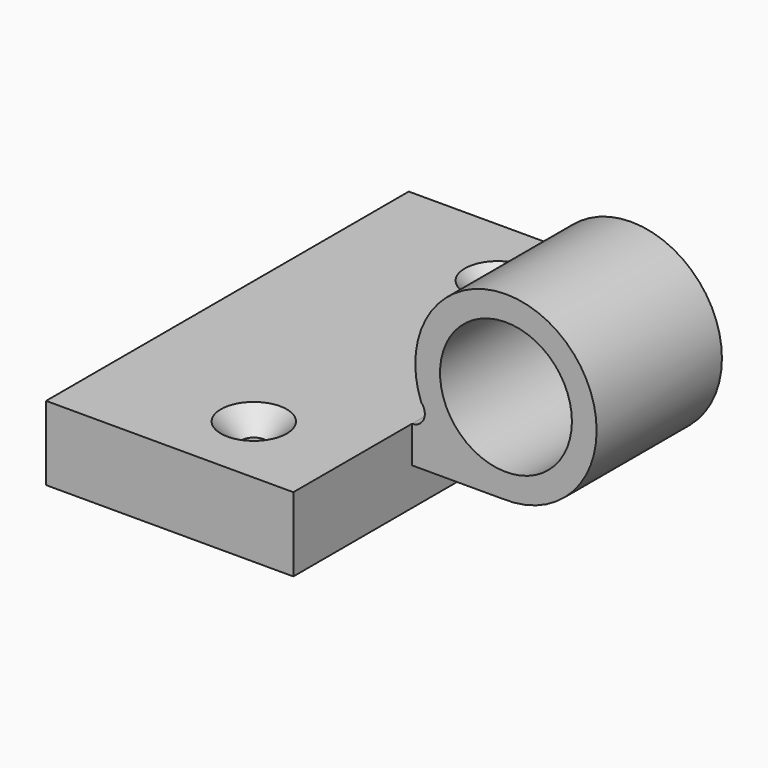
from build123d import *

# Parameters (mm, degrees)
F1_DEPTH       = 27.5
F0_R           = 8
F2_DEPTH       = 9.5
F5_D           = 3
F5_CSINK_D     = 8
F5_CSINK_ANGLE = 90
F6_W           = 26
F6_H           = 50
F6_R           = 1.5
F7_DEPTH       = 5


with BuildPart() as f1:
    # F0 (on Front) → F1 (new body, symmetric)
    with BuildSketch(Plane.XZ):
        Polygon((-15, 4.5), (-15, -4.5), (15, -4.5), (15, 0.0487750938), (15, 4.5), align=None)
    extrude(amount=F1_DEPTH, both=True)

    # F0 (on Front) → F2 (join, symmetric)
    with BuildSketch(Plane.XZ):
        with BuildLine():
            Line((15, 4.5), (15, 0.0487750938))
            Line((15, 0.0487750938), (26.0270317086, 0.0487750938))
            ThreePointArc((26.0270317086, 0.0487750938), (20.4485510909, 1.7874477446), (16.5475113082, 6.1376566135))
            ThreePointArc((16.5475113082, 6.1376566135), (16.1265778305, 4.9854273341), (15, 4.5))
        make_face()
        with BuildLine():
            ThreePointArc((16.5475113082, 6.1376566135), (20.4485510909, 1.7874477446), (26.0270317086, 0.0487750938))
            ThreePointArc((26.0270317086, 0.0487750938), (34.040923726, 3.1360416589), (37.393363731, 11.0426734401))
            ThreePointArc((37.393363731, 11.0426734401), (24.4033695136, 21.8611725511), (16.1133777283, 7.1283551362))
            ThreePointArc((16.1133777283, 7.1283551362), (16.4196666887, 6.6721038843), (16.5475113082, 6.1376566135))
        make_face()
        with Locations((26.393363731, 11.0426734401)):
            Circle(F0_R, mode=Mode.SUBTRACT)
    extrude(amount=F2_DEPTH, both=True)

    # F5 (through all)
    with Locations(Plane.XY.offset(4.5)):
        with Locations((3, 18.5), (3, -18.5)):
            CounterSinkHole(F5_D / 2, F5_CSINK_D / 2, counter_sink_angle=F5_CSINK_ANGLE)

    # F6 (on face) → F7 (cut)
    with BuildSketch(Plane(origin=(0, 0, -4.5), x_dir=(1, 0, 0), z_dir=(0, 0, -1))):
        Rectangle(F6_W, F6_H)
        with Locations((3, -18.5)):
            Circle(F6_R, mode=Mode.SUBTRACT)
        with Locations((3, 18.5)):
            Circle(F6_R, mode=Mode.SUBTRACT)
    extrude(amount=-F7_DEPTH, mode=Mode.SUBTRACT)


solid = f1.part
